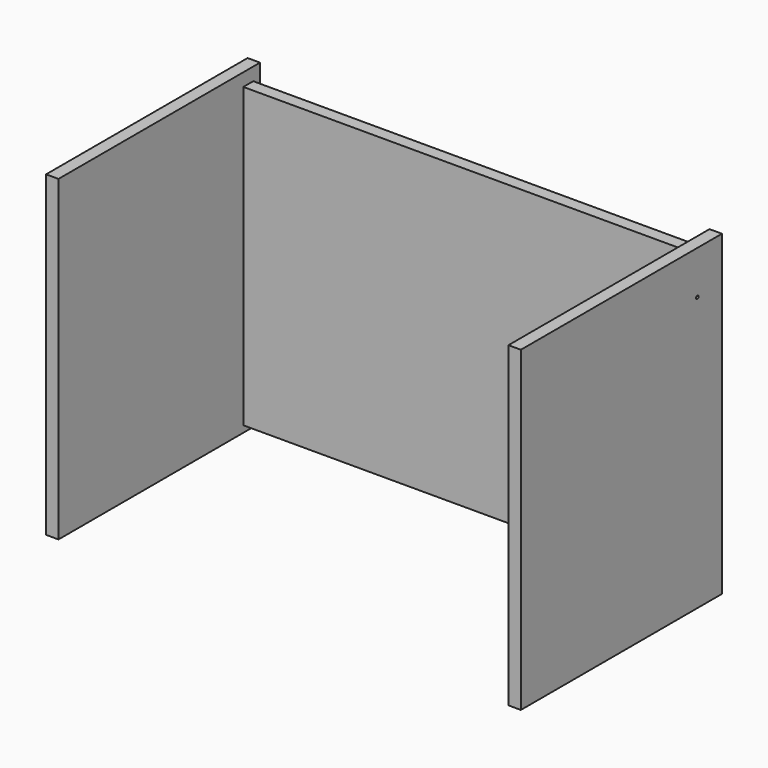
from build123d import *

# Parameters (mm, degrees)
F0_W     = 914.4
F0_H     = 609.6
F1_DEPTH = 25.4
F3_START = 3.175
F2_W     = 514.3393576145
F2_H     = 648.9602029324
F3_DEPTH = 25.4
F5_START = 3.175
F4_W     = 515.4682397842
F4_H     = 649.567514658
F5_DEPTH = 25.4
F6_R     = 3.175
F7_DEPTH = 25.401
F8_W     = 407.2593894481
F8_H     = 31.7710586576
F9_DEPTH = 12.7


with BuildPart() as f1:
    # F0 (on Front) → F1 (new body)
    with BuildSketch(Plane.XZ):
        Rectangle(F0_W, F0_H)
    extrude(amount=-F1_DEPTH)


with BuildPart() as f3:
    # F2 (on face) → F3 (new body)
    with BuildSketch(Plane.YZ.offset(457.2).offset(F3_START)):
        with Locations((-211.5584760904, 3.9795786142)):
            Rectangle(F2_W, F2_H)
    extrude(amount=F3_DEPTH)

    # F6 (on face) → F7 (cut, through all)
    with BuildSketch(Plane(origin=(460.375, 0, 0), x_dir=(0, -1, 0), z_dir=(-1, 0, 0))):
        with Locations((17.4681488425, 239.5596800804)):
            Circle(F6_R)
    extrude(amount=-F7_DEPTH, mode=Mode.SUBTRACT)


with BuildPart() as f5:
    # F4 (on face) → F5 (new body)
    with BuildSketch(Plane(origin=(-457.2, 0, 0), x_dir=(0, -1, 0), z_dir=(-1, 0, 0)).offset(F5_START)):
        with Locations((211.0857069492, 3.8228482008)):
            Rectangle(F4_W, F4_H)
    extrude(amount=F5_DEPTH)


with BuildPart() as f9:
    # F8 (on face) → F9 (new body)
    with BuildSketch(Plane(origin=(460.375, 0, 0), x_dir=(0, -1, 0), z_dir=(-1, 0, 0))):
        with Locations((247.6981936488, 198.2741507516)):
            Rectangle(F8_W, F8_H)
    extrude(amount=F9_DEPTH)


solid = Compound([f1.part, f3.part, f5.part, f9.part])
